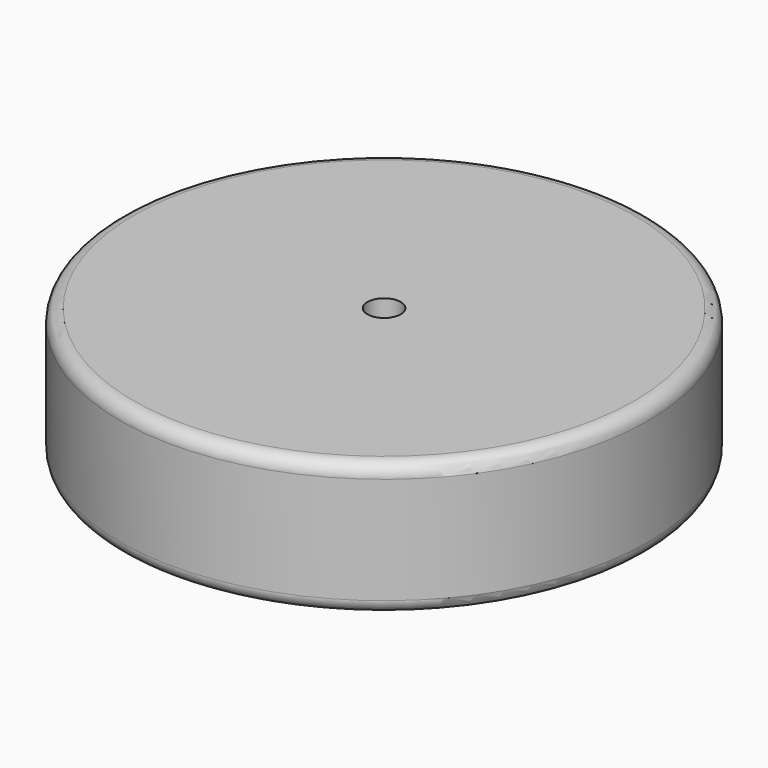
from build123d import *

# Parameters (mm, degrees)
F0_R           = 50.216863
F1_DEPTH       = 25.4
F2_R           = 2.54
F3_R           = 2.54
F4_D           = 6.35
F4_CBORE_D     = 12.7
F4_CBORE_DEPTH = 6.35


with BuildPart() as f1:
    # F0 (on Top) → F1 (new body)
    with BuildSketch(Plane.XY):
        Circle(F0_R)
    extrude(amount=F1_DEPTH)

    # F2
    f2_edges = [f1.edges().sort_by_distance(p)[0] for p in [
        (-50.216863, 0, 25.4),
    ]]
    fillet(f2_edges, radius=F2_R)

    # F3
    f3_edges = [f1.edges().sort_by_distance(p)[0] for p in [
        (-50.216863, 0, 0),
    ]]
    fillet(f3_edges, radius=F3_R)

    # F4 (through all)
    with Locations(Plane(origin=(0, 0, 0), x_dir=(1, 0, 0), z_dir=(0, 0, -1))):
        with Locations((0, 0)):
            CounterBoreHole(F4_D / 2, F4_CBORE_D / 2, F4_CBORE_DEPTH)


solid = f1.part
